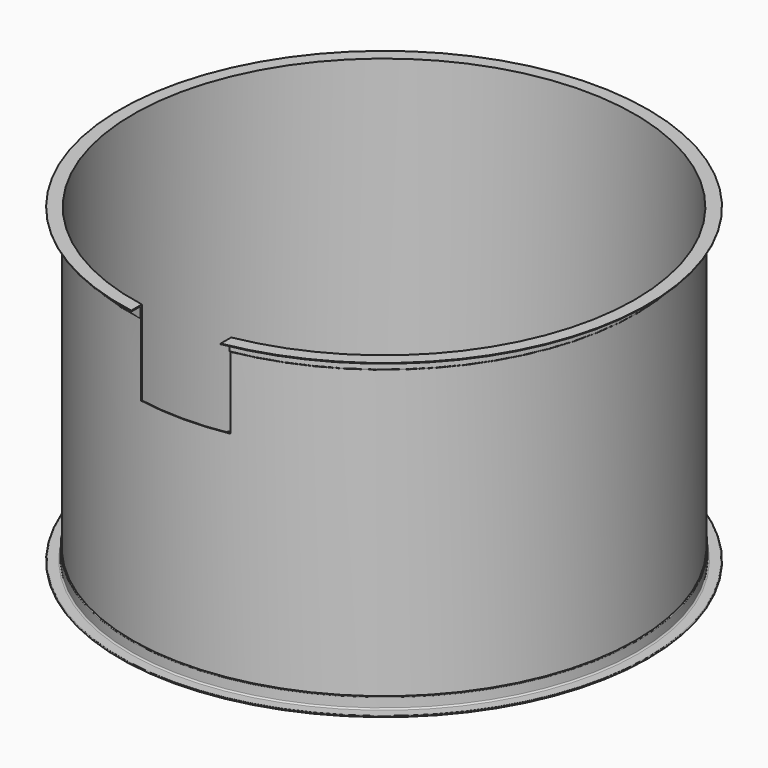
from build123d import *

# Parameters (mm, degrees)
SKETCH001_W   = 550
SKETCH001_H   = 520
EXTRUDE_DEPTH = 2500
SKETCH_W      = 5
SKETCH_H      = 1920


with BuildPart() as extrude_body:
    # Sketch001 → Extrude (new body)
    with BuildSketch(Plane.XZ):
        with Locations((0, 1660)):
            Rectangle(SKETCH001_W, SKETCH001_H)
    extrude(amount=EXTRUDE_DEPTH)


with BuildPart() as revolve001:
    # AngleSteel → Revolve001 (revolve)
    with BuildSketch(Plane(origin=(1570.58985, 0, 20.58985), x_dir=(1, 0, 0), z_dir=(0, 1, 0))):
        with BuildLine():
            Line((-20.58985, 20.58985), (-20.58985, -54.41015))
            Line((-20.58985, -54.41015), (-18.58985, -54.41015))
            ThreePointArc((-18.58985, -54.41015), (-15.761423, -53.238577), (-14.58985, -50.41015))
            Line((-14.58985, -50.41015), (-14.58985, 6.08985))
            ThreePointArc((-14.58985, 6.08985), (-12.100258, 12.100258), (-6.08985, 14.58985))
            Line((-6.08985, 14.58985), (50.41015, 14.58985))
            ThreePointArc((50.41015, 14.58985), (53.238577, 15.761423), (54.41015, 18.58985))
            Line((54.41015, 18.58985), (54.41015, 20.58985))
            Line((54.41015, 20.58985), (-20.58985, 20.58985))
        make_face()
    revolve(axis=Axis((0, 0, 0), (0, 0, 1)))


with BuildPart() as revolve002:
    # AngleSteel001 → Revolve002 (revolve)
    with BuildSketch(Plane(origin=(1570.58985, 0, 1899.41015), x_dir=(1, 0, 0), z_dir=(0, 1, 0))):
        with BuildLine():
            Line((-20.58985, -20.58985), (54.41015, -20.58985))
            Line((54.41015, -20.58985), (54.41015, -18.58985))
            ThreePointArc((54.41015, -18.58985), (53.238577, -15.761423), (50.41015, -14.58985))
            Line((50.41015, -14.58985), (-6.08985, -14.58985))
            ThreePointArc((-6.08985, -14.58985), (-12.100258, -12.100258), (-14.58985, -6.08985))
            Line((-14.58985, -6.08985), (-14.58985, 50.41015))
            ThreePointArc((-14.58985, 50.41015), (-15.761423, 53.238577), (-18.58985, 54.41015))
            Line((-18.58985, 54.41015), (-20.58985, 54.41015))
            Line((-20.58985, 54.41015), (-20.58985, -20.58985))
        make_face()
    revolve(axis=Axis((0, 0, 0), (0, 0, 1)))


with BuildPart() as cut:
    # Sketch → Revolve (revolve)
    with BuildSketch(Plane.XZ):
        with Locations((1547.5, 960)):
            Rectangle(SKETCH_W, SKETCH_H)
    revolve(axis=Axis((0, 0, 0), (0, 0, 1)))

    # Fusion: union Revolve001, Revolve002
    add(revolve001.part)
    add(revolve002.part)

    # Cut: cut Extrude body
    add(extrude_body.part, mode=Mode.SUBTRACT)


solid = cut.part
